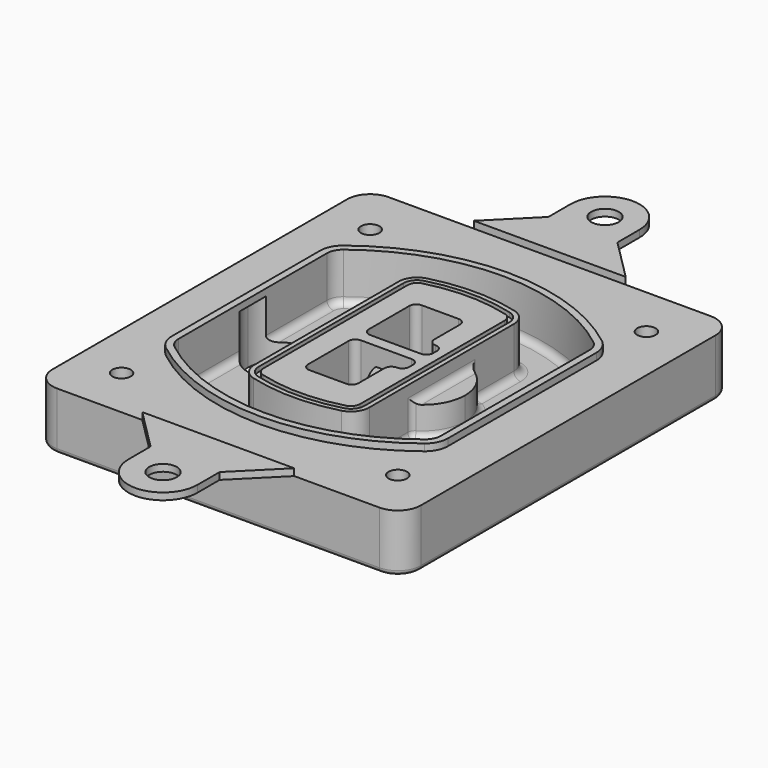
from build123d import *

# Parameters (mm, degrees)
F0_R      = 4
F1_DEPTH  = 25
F2_DEPTH  = 3
F3_DEPTH  = 18
F5_DEPTH  = 21
F6_DEPTH  = 2
F8_DEPTH  = 20
F9_DEPTH  = 16
F10_DEPTH = 25
F7_R      = 6
F7_R_2    = 4
F11_DEPTH = 6
F13_DEPTH = 9
F14_R     = 3
F15_R     = 2
F16_R     = 6
F17_DEPTH = 3


with BuildPart() as f1:
    # F0 (on Top) → F1 (new body)
    with BuildSketch(Plane.XY):
        with BuildLine():
            ThreePointArc((14.05, 38.3825811321), (16.9789321881, 31.3115133202), (24.05, 28.3825811321))
            Line((24.05, 28.3825811321), (164.05, 28.3825811321))
            ThreePointArc((164.05, 28.3825811321), (171.1210678119, 31.3115133202), (174.05, 38.3825811321))
            Line((174.05, 38.3825811321), (174.05, 198.3825811321))
            ThreePointArc((174.05, 198.3825811321), (171.1210678119, 205.4536489439), (164.05, 208.3825811321))
            Line((164.05, 208.3825811321), (24.05, 208.3825811321))
            ThreePointArc((24.05, 208.3825811321), (16.9789321881, 205.4536489439), (14.05, 198.3825811321))
            Line((14.05, 198.3825811321), (14.05, 38.3825811321))
        make_face()
        with Locations((34.05, 50.8825811321)):
            Circle(F0_R, mode=Mode.SUBTRACT)
        with Locations((154.05, 50.8825811321)):
            Circle(F0_R, mode=Mode.SUBTRACT)
        with BuildLine():
            ThreePointArc((30.05, 158.6760234193), (31.4679615202, 164.8154295545), (35.4346153846, 169.7112011673))
            ThreePointArc((35.4346153846, 169.7112011673), (94.05, 189.8825811321), (152.6653846154, 169.7112011673))
            ThreePointArc((152.6653846154, 169.7112011673), (156.6320384798, 164.8154295545), (158.05, 158.6760234193))
            Line((158.05, 158.6760234193), (158.05, 78.0891388448))
            ThreePointArc((158.05, 78.0891388448), (156.6320384798, 71.9497327097), (152.6653846154, 67.0539610969))
            ThreePointArc((152.6653846154, 67.0539610969), (94.05, 46.8825811321), (35.4346153846, 67.0539610969))
            ThreePointArc((35.4346153846, 67.0539610969), (31.4679615202, 71.9497327097), (30.05, 78.0891388448))
            Line((30.05, 78.0891388448), (30.05, 158.6760234193))
        make_face(mode=Mode.SUBTRACT)
        with Locations((34.05, 185.8825811321)):
            Circle(F0_R, mode=Mode.SUBTRACT)
        with Locations((154.05, 185.8825811321)):
            Circle(F0_R, mode=Mode.SUBTRACT)
        with BuildLine():
            ThreePointArc((152.6653846154, 169.7112011673), (94.05, 189.8825811321), (35.4346153846, 169.7112011673))
            ThreePointArc((35.4346153846, 169.7112011673), (31.4679615202, 164.8154295545), (30.05, 158.6760234193))
            Line((30.05, 158.6760234193), (30.05, 78.0891388448))
            ThreePointArc((30.05, 78.0891388448), (31.4679615202, 71.9497327097), (35.4346153846, 67.0539610969))
            ThreePointArc((35.4346153846, 67.0539610969), (94.05, 46.8825811321), (152.6653846154, 67.0539610969))
            ThreePointArc((152.6653846154, 67.0539610969), (156.6320384798, 71.9497327097), (158.05, 78.0891388448))
            Line((158.05, 78.0891388448), (158.05, 158.6760234193))
            ThreePointArc((158.05, 158.6760234193), (156.6320384798, 164.8154295545), (152.6653846154, 169.7112011673))
        make_face()
        with BuildLine():
            Line((34.05, 78.0891388448), (34.05, 158.6760234193))
            ThreePointArc((34.05, 158.6760234193), (35.0628296573, 163.0613135158), (37.8961538462, 166.5582932393))
            ThreePointArc((37.8961538462, 166.5582932393), (94.05, 185.8825811321), (150.2038461538, 166.5582932393))
            ThreePointArc((150.2038461538, 166.5582932393), (153.0371703427, 163.0613135158), (154.05, 158.6760234193))
            Line((154.05, 158.6760234193), (154.05, 78.0891388448))
            ThreePointArc((154.05, 78.0891388448), (153.0371703427, 73.7038487483), (150.2038461538, 70.2068690248))
            ThreePointArc((150.2038461538, 70.2068690248), (94.05, 50.8825811321), (37.8961538462, 70.2068690248))
            ThreePointArc((37.8961538462, 70.2068690248), (35.0628296573, 73.7038487483), (34.05, 78.0891388448))
        make_face(mode=Mode.SUBTRACT)
        with BuildLine():
            ThreePointArc((37.8961538462, 166.5582932393), (35.0628296573, 163.0613135158), (34.05, 158.6760234193))
            Line((34.05, 158.6760234193), (34.05, 78.0891388448))
            ThreePointArc((34.05, 78.0891388448), (35.0628296573, 73.7038487483), (37.8961538462, 70.2068690248))
            ThreePointArc((37.8961538462, 70.2068690248), (94.05, 50.8825811321), (150.2038461538, 70.2068690248))
            ThreePointArc((150.2038461538, 70.2068690248), (153.0371703427, 73.7038487483), (154.05, 78.0891388448))
            Line((154.05, 78.0891388448), (154.05, 158.6760234193))
            ThreePointArc((154.05, 158.6760234193), (153.0371703427, 163.0613135158), (150.2038461538, 166.5582932393))
            ThreePointArc((150.2038461538, 166.5582932393), (94.05, 185.8825811321), (37.8961538462, 166.5582932393))
        make_face()
        with BuildLine():
            ThreePointArc((148.3576923077, 164.1936122933), (150.3410192399, 161.7457264869), (151.05, 158.6760234193))
            Line((151.05, 158.6760234193), (151.05, 78.0891388448))
            ThreePointArc((151.05, 78.0891388448), (150.3410192399, 75.0194357772), (148.3576923077, 72.5715499708))
            ThreePointArc((148.3576923077, 72.5715499708), (94.05, 53.8825811321), (39.7423076923, 72.5715499708))
            ThreePointArc((39.7423076923, 72.5715499708), (37.7589807601, 75.0194357772), (37.05, 78.0891388448))
            Line((37.05, 78.0891388448), (37.05, 158.6760234193))
            ThreePointArc((37.05, 158.6760234193), (37.7589807601, 161.7457264869), (39.7423076923, 164.1936122933))
            ThreePointArc((39.7423076923, 164.1936122933), (94.05, 182.8825811321), (148.3576923077, 164.1936122933))
        make_face(mode=Mode.SUBTRACT)
        with BuildLine():
            Line((151.05, 78.0891388448), (151.05, 158.6760234193))
            ThreePointArc((151.05, 158.6760234193), (150.3410192399, 161.7457264869), (148.3576923077, 164.1936122933))
            ThreePointArc((148.3576923077, 164.1936122933), (94.05, 182.8825811321), (39.7423076923, 164.1936122933))
            ThreePointArc((39.7423076923, 164.1936122933), (37.7589807601, 161.7457264869), (37.05, 158.6760234193))
            Line((37.05, 158.6760234193), (37.05, 78.0891388448))
            ThreePointArc((37.05, 78.0891388448), (37.7589807601, 75.0194357772), (39.7423076923, 72.5715499708))
            ThreePointArc((39.7423076923, 72.5715499708), (94.05, 53.8825811321), (148.3576923077, 72.5715499708))
            ThreePointArc((148.3576923077, 72.5715499708), (150.3410192399, 75.0194357772), (151.05, 78.0891388448))
        make_face()
    extrude(amount=-F1_DEPTH)

    # F0 (on Top) → F2 (join)
    with BuildSketch(Plane.XY):
        with BuildLine():
            ThreePointArc((37.8961538462, 166.5582932393), (35.0628296573, 163.0613135158), (34.05, 158.6760234193))
            Line((34.05, 158.6760234193), (34.05, 78.0891388448))
            ThreePointArc((34.05, 78.0891388448), (35.0628296573, 73.7038487483), (37.8961538462, 70.2068690248))
            ThreePointArc((37.8961538462, 70.2068690248), (94.05, 50.8825811321), (150.2038461538, 70.2068690248))
            ThreePointArc((150.2038461538, 70.2068690248), (153.0371703427, 73.7038487483), (154.05, 78.0891388448))
            Line((154.05, 78.0891388448), (154.05, 158.6760234193))
            ThreePointArc((154.05, 158.6760234193), (153.0371703427, 163.0613135158), (150.2038461538, 166.5582932393))
            ThreePointArc((150.2038461538, 166.5582932393), (94.05, 185.8825811321), (37.8961538462, 166.5582932393))
        make_face()
        with BuildLine():
            ThreePointArc((148.3576923077, 164.1936122933), (150.3410192399, 161.7457264869), (151.05, 158.6760234193))
            Line((151.05, 158.6760234193), (151.05, 78.0891388448))
            ThreePointArc((151.05, 78.0891388448), (150.3410192399, 75.0194357772), (148.3576923077, 72.5715499708))
            ThreePointArc((148.3576923077, 72.5715499708), (94.05, 53.8825811321), (39.7423076923, 72.5715499708))
            ThreePointArc((39.7423076923, 72.5715499708), (37.7589807601, 75.0194357772), (37.05, 78.0891388448))
            Line((37.05, 78.0891388448), (37.05, 158.6760234193))
            ThreePointArc((37.05, 158.6760234193), (37.7589807601, 161.7457264869), (39.7423076923, 164.1936122933))
            ThreePointArc((39.7423076923, 164.1936122933), (94.05, 182.8825811321), (148.3576923077, 164.1936122933))
        make_face(mode=Mode.SUBTRACT)
    extrude(amount=F2_DEPTH)

    # F0 (on Top) → F3 (cut)
    with BuildSketch(Plane.XY):
        with BuildLine():
            Line((151.05, 78.0891388448), (151.05, 158.6760234193))
            ThreePointArc((151.05, 158.6760234193), (150.3410192399, 161.7457264869), (148.3576923077, 164.1936122933))
            ThreePointArc((148.3576923077, 164.1936122933), (94.05, 182.8825811321), (39.7423076923, 164.1936122933))
            ThreePointArc((39.7423076923, 164.1936122933), (37.7589807601, 161.7457264869), (37.05, 158.6760234193))
            Line((37.05, 158.6760234193), (37.05, 78.0891388448))
            ThreePointArc((37.05, 78.0891388448), (37.7589807601, 75.0194357772), (39.7423076923, 72.5715499708))
            ThreePointArc((39.7423076923, 72.5715499708), (94.05, 53.8825811321), (148.3576923077, 72.5715499708))
            ThreePointArc((148.3576923077, 72.5715499708), (150.3410192399, 75.0194357772), (151.05, 78.0891388448))
        make_face()
    extrude(amount=-F3_DEPTH, mode=Mode.SUBTRACT)

    # F4 (on face) → F5 (join, through all)
    with BuildSketch(Plane.XY.offset(3)):
        with BuildLine():
            ThreePointArc((69.05, 79.13605345), (70.6988454002, 74.2716074128), (74.9657088123, 71.4123412437))
            ThreePointArc((74.9657088123, 71.4123412437), (94.05, 68.8825811321), (113.1342911877, 71.4123412437))
            ThreePointArc((113.1342911877, 71.4123412437), (117.4011545998, 74.2716074128), (119.05, 79.13605345))
            Line((119.05, 79.13605345), (119.05, 157.6291088141))
            ThreePointArc((119.05, 157.6291088141), (117.4011545998, 162.4935548514), (113.1342911877, 165.3528210204))
            ThreePointArc((113.1342911877, 165.3528210204), (94.05, 167.8825811321), (74.9657088123, 165.3528210204))
            ThreePointArc((74.9657088123, 165.3528210204), (70.6988454002, 162.4935548514), (69.05, 157.6291088141))
            Line((69.05, 157.6291088141), (69.05, 79.13605345))
        make_face()
        with BuildLine():
            ThreePointArc((112.6132183908, 163.4218929688), (115.8133659499, 161.2774433421), (117.05, 157.6291088141))
            Line((117.05, 157.6291088141), (117.05, 79.13605345))
            ThreePointArc((117.05, 79.13605345), (115.8133659499, 75.4877189221), (112.6132183908, 73.3432692953))
            ThreePointArc((112.6132183908, 73.3432692953), (94.05, 70.8825811321), (75.4867816092, 73.3432692953))
            ThreePointArc((75.4867816092, 73.3432692953), (72.2866340501, 75.4877189221), (71.05, 79.13605345))
            Line((71.05, 79.13605345), (71.05, 157.6291088141))
            ThreePointArc((71.05, 157.6291088141), (72.2866340501, 161.2774433421), (75.4867816092, 163.4218929688))
            ThreePointArc((75.4867816092, 163.4218929688), (94.05, 165.8825811321), (112.6132183908, 163.4218929688))
        make_face(mode=Mode.SUBTRACT)
        with BuildLine():
            Line((117.05, 79.13605345), (117.05, 157.6291088141))
            ThreePointArc((117.05, 157.6291088141), (115.8133659499, 161.2774433421), (112.6132183908, 163.4218929688))
            ThreePointArc((112.6132183908, 163.4218929688), (94.05, 165.8825811321), (75.4867816092, 163.4218929688))
            ThreePointArc((75.4867816092, 163.4218929688), (72.2866340501, 161.2774433421), (71.05, 157.6291088141))
            Line((71.05, 157.6291088141), (71.05, 79.13605345))
            ThreePointArc((71.05, 79.13605345), (72.2866340501, 75.4877189221), (75.4867816092, 73.3432692953))
            ThreePointArc((75.4867816092, 73.3432692953), (94.05, 70.8825811321), (112.6132183908, 73.3432692953))
            ThreePointArc((112.6132183908, 73.3432692953), (115.8133659499, 75.4877189221), (117.05, 79.13605345))
        make_face()
        with BuildLine():
            ThreePointArc((112.0921455939, 161.4909649173), (114.2255772999, 160.0613318328), (115.05, 157.6291088141))
            Line((115.05, 157.6291088141), (115.05, 79.13605345))
            ThreePointArc((115.05, 79.13605345), (114.2255772999, 76.7038304314), (112.0921455939, 75.2741973469))
            ThreePointArc((112.0921455939, 75.2741973469), (94.05, 72.8825811321), (76.0078544061, 75.2741973469))
            ThreePointArc((76.0078544061, 75.2741973469), (73.8744227001, 76.7038304314), (73.05, 79.13605345))
            Line((73.05, 79.13605345), (73.05, 157.6291088141))
            ThreePointArc((73.05, 157.6291088141), (73.8744227001, 160.0613318328), (76.0078544061, 161.4909649173))
            ThreePointArc((76.0078544061, 161.4909649173), (94.05, 163.8825811321), (112.0921455939, 161.4909649173))
        make_face(mode=Mode.SUBTRACT)
        with BuildLine():
            Line((115.05, 79.13605345), (115.05, 157.6291088141))
            ThreePointArc((115.05, 157.6291088141), (114.2255772999, 160.0613318328), (112.0921455939, 161.4909649173))
            ThreePointArc((112.0921455939, 161.4909649173), (94.05, 163.8825811321), (76.0078544061, 161.4909649173))
            ThreePointArc((76.0078544061, 161.4909649173), (73.8744227001, 160.0613318328), (73.05, 157.6291088141))
            Line((73.05, 157.6291088141), (73.05, 79.13605345))
            ThreePointArc((73.05, 79.13605345), (73.8744227001, 76.7038304314), (76.0078544061, 75.2741973469))
            ThreePointArc((76.0078544061, 75.2741973469), (94.05, 72.8825811321), (112.0921455939, 75.2741973469))
            ThreePointArc((112.0921455939, 75.2741973469), (114.2255772999, 76.7038304314), (115.05, 79.13605345))
        make_face()
        with BuildLine():
            Line((86.05, 115.8825811321), (108.05, 115.8825811321))
            ThreePointArc((108.05, 115.8825811321), (110.1713203436, 115.0039014756), (111.05, 112.8825811321))
            Line((111.05, 112.8825811321), (111.05, 110.8825811321))
            ThreePointArc((111.05, 110.8825811321), (110.1713203436, 108.7612607885), (108.05, 107.8825811321))
            ThreePointArc((108.05, 107.8825811321), (105.9286796564, 107.0039014756), (105.05, 104.8825811321))
            Line((105.05, 104.8825811321), (105.05, 90.8825811321))
            ThreePointArc((105.05, 90.8825811321), (104.1713203436, 88.7612607885), (102.05, 87.8825811321))
            Line((102.05, 87.8825811321), (86.05, 87.8825811321))
            ThreePointArc((86.05, 87.8825811321), (83.9286796564, 88.7612607885), (83.05, 90.8825811321))
            Line((83.05, 90.8825811321), (83.05, 112.8825811321))
            ThreePointArc((83.05, 112.8825811321), (83.9286796564, 115.0039014756), (86.05, 115.8825811321))
        make_face(mode=Mode.SUBTRACT)
        with BuildLine():
            ThreePointArc((86.05, 120.8825811321), (83.9286796564, 121.7612607885), (83.05, 123.8825811321))
            Line((83.05, 123.8825811321), (83.05, 145.8825811321))
            ThreePointArc((83.05, 145.8825811321), (83.9286796564, 148.0039014756), (86.05, 148.8825811321))
            Line((86.05, 148.8825811321), (102.05, 148.8825811321))
            ThreePointArc((102.05, 148.8825811321), (104.1713203436, 148.0039014756), (105.05, 145.8825811321))
            Line((105.05, 145.8825811321), (105.05, 131.8825811321))
            ThreePointArc((105.05, 131.8825811321), (105.9286796564, 129.7612607885), (108.05, 128.8825811321))
            ThreePointArc((108.05, 128.8825811321), (110.1713203436, 128.0039014756), (111.05, 125.8825811321))
            Line((111.05, 125.8825811321), (111.05, 123.8825811321))
            ThreePointArc((111.05, 123.8825811321), (110.1713203436, 121.7612607885), (108.05, 120.8825811321))
            Line((108.05, 120.8825811321), (86.05, 120.8825811321))
        make_face(mode=Mode.SUBTRACT)
    extrude(amount=-F5_DEPTH)

    # F4 (on face) → F6 (cut)
    with BuildSketch(Plane.XY.offset(3)):
        with BuildLine():
            Line((117.05, 79.13605345), (117.05, 157.6291088141))
            ThreePointArc((117.05, 157.6291088141), (115.8133659499, 161.2774433421), (112.6132183908, 163.4218929688))
            ThreePointArc((112.6132183908, 163.4218929688), (94.05, 165.8825811321), (75.4867816092, 163.4218929688))
            ThreePointArc((75.4867816092, 163.4218929688), (72.2866340501, 161.2774433421), (71.05, 157.6291088141))
            Line((71.05, 157.6291088141), (71.05, 79.13605345))
            ThreePointArc((71.05, 79.13605345), (72.2866340501, 75.4877189221), (75.4867816092, 73.3432692953))
            ThreePointArc((75.4867816092, 73.3432692953), (94.05, 70.8825811321), (112.6132183908, 73.3432692953))
            ThreePointArc((112.6132183908, 73.3432692953), (115.8133659499, 75.4877189221), (117.05, 79.13605345))
        make_face()
        with BuildLine():
            ThreePointArc((112.0921455939, 161.4909649173), (114.2255772999, 160.0613318328), (115.05, 157.6291088141))
            Line((115.05, 157.6291088141), (115.05, 79.13605345))
            ThreePointArc((115.05, 79.13605345), (114.2255772999, 76.7038304314), (112.0921455939, 75.2741973469))
            ThreePointArc((112.0921455939, 75.2741973469), (94.05, 72.8825811321), (76.0078544061, 75.2741973469))
            ThreePointArc((76.0078544061, 75.2741973469), (73.8744227001, 76.7038304314), (73.05, 79.13605345))
            Line((73.05, 79.13605345), (73.05, 157.6291088141))
            ThreePointArc((73.05, 157.6291088141), (73.8744227001, 160.0613318328), (76.0078544061, 161.4909649173))
            ThreePointArc((76.0078544061, 161.4909649173), (94.05, 163.8825811321), (112.0921455939, 161.4909649173))
        make_face(mode=Mode.SUBTRACT)
    extrude(amount=-F6_DEPTH, mode=Mode.SUBTRACT)

    # F7 (on face) → F8 (join)
    with BuildSketch(Plane(origin=(0, 0, -25), x_dir=(1, 0, 0), z_dir=(0, 0, -1))):
        with BuildLine():
            ThreePointArc((97.33842436, -118.3825811321), (110.8067035675, -104.9143019245), (124.274982775, -118.3825811321))
            Line((124.274982775, -118.3825811321), (129.274982775, -118.3825811321))
            ThreePointArc((129.274982775, -118.3825811321), (110.8067035675, -99.9143019245), (92.33842436, -118.3825811321))
            Line((92.33842436, -118.3825811321), (97.33842436, -118.3825811321))
        make_face()
        with BuildLine():
            Line((97.33842436, -118.3825811321), (124.274982775, -118.3825811321))
            ThreePointArc((124.274982775, -118.3825811321), (110.8067035675, -104.9143019245), (97.33842436, -118.3825811321))
        make_face()
        with BuildLine():
            ThreePointArc((97.33842436, -118.3825811321), (110.8067035675, -131.8508603396), (124.274982775, -118.3825811321))
            Line((124.274982775, -118.3825811321), (97.33842436, -118.3825811321))
        make_face()
        with BuildLine():
            Line((129.274982775, -118.3825811321), (124.274982775, -118.3825811321))
            ThreePointArc((124.274982775, -118.3825811321), (110.8067035675, -131.8508603396), (97.33842436, -118.3825811321))
            Line((97.33842436, -118.3825811321), (92.33842436, -118.3825811321))
            ThreePointArc((92.33842436, -118.3825811321), (110.8067035675, -136.8508603396), (129.274982775, -118.3825811321))
        make_face()
    extrude(amount=-F8_DEPTH)

    # F7 (on face) → F9 (cut)
    with BuildSketch(Plane(origin=(0, 0, -25), x_dir=(1, 0, 0), z_dir=(0, 0, -1))):
        with BuildLine():
            Line((97.33842436, -118.3825811321), (124.274982775, -118.3825811321))
            ThreePointArc((124.274982775, -118.3825811321), (110.8067035675, -104.9143019245), (97.33842436, -118.3825811321))
        make_face()
        with BuildLine():
            ThreePointArc((97.33842436, -118.3825811321), (110.8067035675, -131.8508603396), (124.274982775, -118.3825811321))
            Line((124.274982775, -118.3825811321), (97.33842436, -118.3825811321))
        make_face()
    extrude(amount=-F9_DEPTH, mode=Mode.SUBTRACT)

    # F7 (on face) → F10 (cut)
    with BuildSketch(Plane(origin=(0, 0, -25), x_dir=(1, 0, 0), z_dir=(0, 0, -1))):
        with BuildLine():
            Line((35.0181770675, -118.3825811321), (61.9547354825, -118.3825811321))
            ThreePointArc((61.9547354825, -118.3825811321), (48.486456275, -104.9143019245), (35.0181770675, -118.3825811321))
        make_face()
        with BuildLine():
            ThreePointArc((35.0181770675, -118.3825811321), (48.486456275, -131.8508603396), (61.9547354825, -118.3825811321))
            Line((61.9547354825, -118.3825811321), (35.0181770675, -118.3825811321))
        make_face()
    extrude(amount=-F10_DEPTH, mode=Mode.SUBTRACT)

    # F7 (on face) → F11 (cut)
    with BuildSketch(Plane(origin=(0, 0, -25), x_dir=(1, 0, 0), z_dir=(0, 0, -1))):
        with Locations((154.05, -185.8825811321)):
            Circle(F7_R)
        with Locations((154.05, -185.8825811321)):
            Circle(F7_R_2, mode=Mode.SUBTRACT)
        with Locations((154.05, -185.8825811321)):
            Circle(F7_R)
        with Locations((154.05, -185.8825811321)):
            Circle(F7_R_2, mode=Mode.SUBTRACT)
        with Locations((34.05, -185.8825811321)):
            Circle(F7_R)
        with Locations((34.05, -185.8825811321)):
            Circle(F7_R_2, mode=Mode.SUBTRACT)
        with Locations((34.05, -185.8825811321)):
            Circle(F7_R)
        with Locations((34.05, -185.8825811321)):
            Circle(F7_R_2, mode=Mode.SUBTRACT)
        with Locations((34.05, -50.8825811321)):
            Circle(F7_R)
        with Locations((34.05, -50.8825811321)):
            Circle(F7_R_2, mode=Mode.SUBTRACT)
        with Locations((34.05, -50.8825811321)):
            Circle(F7_R)
        with Locations((34.05, -50.8825811321)):
            Circle(F7_R_2, mode=Mode.SUBTRACT)
        with Locations((154.05, -50.8825811321)):
            Circle(F7_R)
        with Locations((154.05, -50.8825811321)):
            Circle(F7_R_2, mode=Mode.SUBTRACT)
        with Locations((154.05, -50.8825811321)):
            Circle(F7_R)
        with Locations((154.05, -50.8825811321)):
            Circle(F7_R_2, mode=Mode.SUBTRACT)
    extrude(amount=-F11_DEPTH, mode=Mode.SUBTRACT)

    # F12 (on face) → F13 (cut, through all)
    with BuildSketch(Plane(origin=(0, 0, -9), x_dir=(1, 0, 0), z_dir=(0, 0, -1))):
        with BuildLine():
            Line((105.05, -104.8825811321), (105.05, -100.8344273567))
            ThreePointArc((105.05, -100.8344273567), (96.6196536419, -106.5586667507), (92.5084157545, -115.8825811321))
            Line((92.5084157545, -115.8825811321), (97.5724848595, -115.8825811321))
            ThreePointArc((97.5724848595, -115.8825811321), (100.2357188154, -110.0369939039), (105.3036447004, -106.0898642673))
            ThreePointArc((105.3036447004, -106.0898642673), (105.1140958889, -105.4994012441), (105.05, -104.8825811321))
        make_face()
        with BuildLine():
            ThreePointArc((105.3036447004, -130.6752979968), (100.2357188154, -126.7281683602), (97.5724848595, -120.8825811321))
            Line((97.5724848595, -120.8825811321), (92.5084157545, -120.8825811321))
            ThreePointArc((92.5084157545, -120.8825811321), (96.6196536419, -130.2064955134), (105.05, -135.9307349074))
            Line((105.05, -135.9307349074), (105.05, -131.8825811321))
            ThreePointArc((105.05, -131.8825811321), (105.1140958889, -131.26576102), (105.3036447004, -130.6752979968))
        make_face()
        with BuildLine():
            ThreePointArc((105.3036447004, -106.0898642673), (100.2357188154, -110.0369939039), (97.5724848595, -115.8825811321))
            Line((97.5724848595, -115.8825811321), (108.05, -115.8825811321))
            ThreePointArc((108.05, -115.8825811321), (110.1713203436, -115.0039014756), (111.05, -112.8825811321))
            Line((111.05, -112.8825811321), (111.05, -110.8825811321))
            ThreePointArc((111.05, -110.8825811321), (110.1713203436, -108.7612607885), (108.05, -107.8825811321))
            ThreePointArc((108.05, -107.8825811321), (106.4101599782, -107.3947365219), (105.3036447004, -106.0898642673))
        make_face()
        with BuildLine():
            Line((108.05, -120.8825811321), (97.5724848595, -120.8825811321))
            ThreePointArc((97.5724848595, -120.8825811321), (100.2357188154, -126.7281683602), (105.3036447004, -130.6752979968))
            ThreePointArc((105.3036447004, -130.6752979968), (106.4101599782, -129.3704257422), (108.05, -128.8825811321))
            ThreePointArc((108.05, -128.8825811321), (110.1713203436, -128.0039014756), (111.05, -125.8825811321))
            Line((111.05, -125.8825811321), (111.05, -123.8825811321))
            ThreePointArc((111.05, -123.8825811321), (110.1713203436, -121.7612607885), (108.05, -120.8825811321))
        make_face()
    extrude(amount=F13_DEPTH, mode=Mode.SUBTRACT)

    # F14
    f14_edges = [f1.edges().sort_by_distance(p)[0] for p in [
        (37.05, 94.679105, -18),
        (37.05, 142.086057, -18),
        (119.05, 118.382581, -5),
        (119.05, 134.909087, -11.5),
        (119.05, 101.856075, -11.5),
        (119.05, 90.496064, -18),
        (129.274983, 118.382581, -18),
    ]]
    fillet(f14_edges, radius=F14_R)

    # F15
    f15_edges = [f1.edges().sort_by_distance(p)[0] for p in [
        (94.05, 28.382581, -25),
    ]]
    fillet(f15_edges, radius=F15_R)


with BuildPart() as f17:
    # F16 (on Top) → F17 (new body, through all)
    with BuildSketch(Plane.XY):
        with BuildLine():
            Line((79.05, 226.3825811321), (61.05, 208.3825811321))
            Line((61.05, 208.3825811321), (127.05, 208.3825811321))
            Line((127.05, 208.3825811321), (109.05, 226.3825811321))
            Line((109.05, 226.3825811321), (109.05, 238.3825811321))
            ThreePointArc((109.05, 238.3825811321), (94.05, 253.3825811321), (79.05, 238.3825811321))
            Line((79.05, 238.3825811321), (79.05, 226.3825811321))
        make_face()
        with Locations((94.05, 238.3825811321)):
            Circle(F16_R, mode=Mode.SUBTRACT)
    extrude(amount=F17_DEPTH)


with BuildPart() as f17b:
    # F16 (on Top) → F17, piece 2 (new body, through all)
    with BuildSketch(Plane.XY):
        with BuildLine():
            Line((127.05, 28.3825811321), (61.05, 28.3825811321))
            Line((61.05, 28.3825811321), (79.05, 10.3825811321))
            Line((79.05, 10.3825811321), (79.05, -1.6174188679))
            ThreePointArc((79.05, -1.6174188679), (94.05, -16.6174188679), (109.05, -1.6174188679))
            Line((109.05, -1.6174188679), (109.05, 10.3825811321))
            Line((109.05, 10.3825811321), (127.05, 28.3825811321))
        make_face()
        with Locations((94.05, -1.6174188679)):
            Circle(F16_R, mode=Mode.SUBTRACT)
    extrude(amount=F17_DEPTH)


solid = Compound([f1.part, f17.part, f17b.part])
